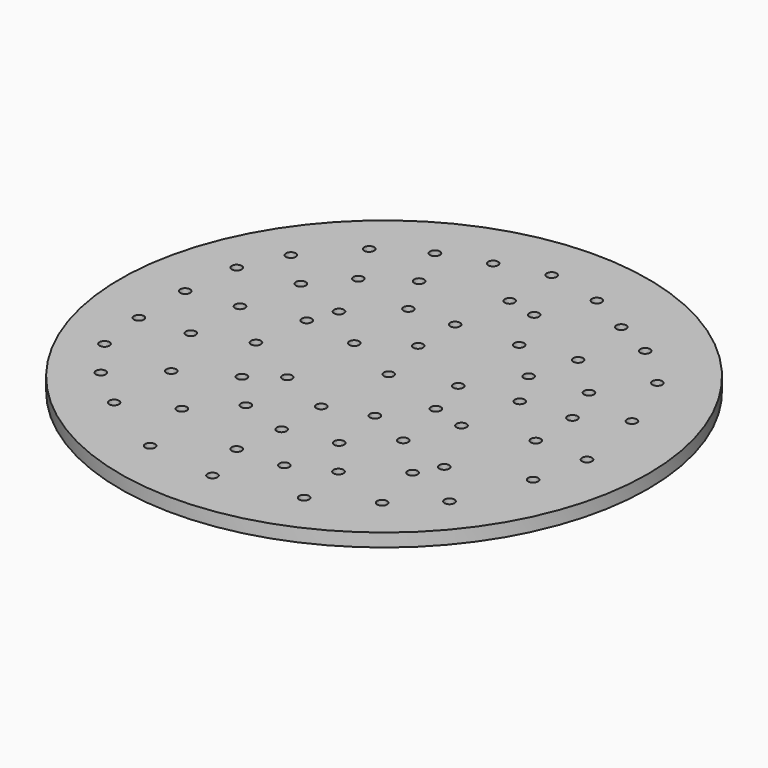
from build123d import *

# Parameters (mm, degrees)
F0_R     = 40
F0_R_2   = 0.75
F1_DEPTH = 2


with BuildPart() as f1:
    # F0 (on Top) → F1 (new body)
    with BuildSketch(Plane.XY):
        Circle(F0_R)
        with Locations((-20.78299, -25.164945)):
            Circle(F0_R_2, mode=Mode.SUBTRACT)
        with Locations((-26.792528, -20.156994)):
            Circle(F0_R_2, mode=Mode.SUBTRACT)
        with Locations((-10.516693, -31.174485)):
            Circle(F0_R_2, mode=Mode.SUBTRACT)
        with Locations((-13.521464, -21.409065)):
            Circle(F0_R_2, mode=Mode.SUBTRACT)
        with Locations((-2.00318, -25.415344)):
            Circle(F0_R_2, mode=Mode.SUBTRACT)
        with Locations((-31.049285, -14.147457)):
            Circle(F0_R_2, mode=Mode.SUBTRACT)
        with Locations((-20.532593, -14.647896)):
            Circle(F0_R_2, mode=Mode.SUBTRACT)
        with Locations((-32.050874, -6.385135)):
            Circle(F0_R_2, mode=Mode.SUBTRACT)
        with Locations((-24.789348, -5.633006)):
            Circle(F0_R_2, mode=Mode.SUBTRACT)
        with Locations((-13.085132, -10.563891)):
            Circle(F0_R_2, mode=Mode.SUBTRACT)
        with Locations((-8.170747, -15.973391)):
            Circle(F0_R_2, mode=Mode.SUBTRACT)
        with Locations((-1.00159, -18.153816)):
            Circle(F0_R_2, mode=Mode.SUBTRACT)
        with Locations((-1.00159, -10.641892)):
            Circle(F0_R_2, mode=Mode.SUBTRACT)
        with Locations((-17.265331, -2.690971)):
            Circle(F0_R_2, mode=Mode.SUBTRACT)
        with Locations((-8.823515, -7.313374)):
            Circle(F0_R_2, mode=Mode.SUBTRACT)
        with Locations((0, -32.5)):
            Circle(F0_R_2, mode=Mode.SUBTRACT)
        with Locations((12.019077, -30.17354)):
            Circle(F0_R_2, mode=Mode.SUBTRACT)
        with Locations((5.001707, -25.1524)):
            Circle(F0_R_2, mode=Mode.SUBTRACT)
        with Locations((11.018466, -22.407565)):
            Circle(F0_R_2, mode=Mode.SUBTRACT)
        with Locations((20.031797, -25.415681)):
            Circle(F0_R_2, mode=Mode.SUBTRACT)
        with Locations((26.041336, -20.156994)):
            Circle(F0_R_2, mode=Mode.SUBTRACT)
        with Locations((6.498813, -16.62863)):
            Circle(F0_R_2, mode=Mode.SUBTRACT)
        with Locations((18.033735, -17.151887)):
            Circle(F0_R_2, mode=Mode.SUBTRACT)
        with Locations((12.0117, -11.374607)):
            Circle(F0_R_2, mode=Mode.SUBTRACT)
        with Locations((5.428696, -8.52426)):
            Circle(F0_R_2, mode=Mode.SUBTRACT)
        with Locations((9.956572, -2.640874)):
            Circle(F0_R_2, mode=Mode.SUBTRACT)
        with Locations((15.014591, -4.10834)):
            Circle(F0_R_2, mode=Mode.SUBTRACT)
        with Locations((20.036818, -13.646242)):
            Circle(F0_R_2, mode=Mode.SUBTRACT)
        with Locations((24.291573, -1.626389)):
            Circle(F0_R_2, mode=Mode.SUBTRACT)
        with Locations((30.298091, -9.640303)):
            Circle(F0_R_2, mode=Mode.SUBTRACT)
        with Locations((32.050874, -1.627584)):
            Circle(F0_R_2, mode=Mode.SUBTRACT)
        with Locations((-32.050874, 2.378776)):
            Circle(F0_R_2, mode=Mode.SUBTRACT)
        with Locations((-24.538951, 3.381884)):
            Circle(F0_R_2, mode=Mode.SUBTRACT)
        with Locations((-31.049285, 10.89229)):
            Circle(F0_R_2, mode=Mode.SUBTRACT)
        with Locations((-22.535771, 12.396773)):
            Circle(F0_R_2, mode=Mode.SUBTRACT)
        with Locations((-28.044516, 17.402625)):
            Circle(F0_R_2, mode=Mode.SUBTRACT)
        with Locations((-16.12178, 5.494459)):
            Circle(F0_R_2, mode=Mode.SUBTRACT)
        with Locations((-14.562273, 9.657283)):
            Circle(F0_R_2, mode=Mode.SUBTRACT)
        with Locations((-8.088846, 4.472589)):
            Circle(F0_R_2, mode=Mode.SUBTRACT)
        with Locations((-1.752782, 8.638713)):
            Circle(F0_R_2, mode=Mode.SUBTRACT)
        with Locations((-18.028617, 17.65546)):
            Circle(F0_R_2, mode=Mode.SUBTRACT)
        with Locations((-8.559517, 15.310555)):
            Circle(F0_R_2, mode=Mode.SUBTRACT)
        with Locations((-1.752782, 15.649842)):
            Circle(F0_R_2, mode=Mode.SUBTRACT)
        with Locations((-21.784579, 24.413751)):
            Circle(F0_R_2, mode=Mode.SUBTRACT)
        with Locations((-12.019078, 21.662077)):
            Circle(F0_R_2, mode=Mode.SUBTRACT)
        with Locations((-15.023848, 28.420113)):
            Circle(F0_R_2, mode=Mode.SUBTRACT)
        with Locations((-0.500794, 24.413751)):
            Circle(F0_R_2, mode=Mode.SUBTRACT)
        with Locations((-8.012719, 30.673688)):
            Circle(F0_R_2, mode=Mode.SUBTRACT)
        with Locations((-0.751193, 32.676868)):
            Circle(F0_R_2, mode=Mode.SUBTRACT)
        with Locations((0.083299, 0.782396)):
            Circle(F0_R_2, mode=Mode.SUBTRACT)
        with Locations((8.358954, 3.596777)):
            Circle(F0_R_2, mode=Mode.SUBTRACT)
        with Locations((16.523292, 5.051284)):
            Circle(F0_R_2, mode=Mode.SUBTRACT)
        with Locations((7.431873, 16.293498)):
            Circle(F0_R_2, mode=Mode.SUBTRACT)
        with Locations((13.338599, 10.725901)):
            Circle(F0_R_2, mode=Mode.SUBTRACT)
        with Locations((15.27423, 17.655458)):
            Circle(F0_R_2, mode=Mode.SUBTRACT)
        with Locations((24.040258, 5.635606)):
            Circle(F0_R_2, mode=Mode.SUBTRACT)
        with Locations((30.047698, 9.389905)):
            Circle(F0_R_2, mode=Mode.SUBTRACT)
        with Locations((21.535313, 11.895946)):
            Circle(F0_R_2, mode=Mode.SUBTRACT)
        with Locations((26.291735, 18.905008)):
            Circle(F0_R_2, mode=Mode.SUBTRACT)
        with Locations((4.00636, 23.414971)):
            Circle(F0_R_2, mode=Mode.SUBTRACT)
        with Locations((14.022258, 27.418524)):
            Circle(F0_R_2, mode=Mode.SUBTRACT)
        with Locations((7.511923, 30.924087)):
            Circle(F0_R_2, mode=Mode.SUBTRACT)
        with Locations((20.031797, 24.413751)):
            Circle(F0_R_2, mode=Mode.SUBTRACT)
    extrude(amount=F1_DEPTH)


solid = f1.part
